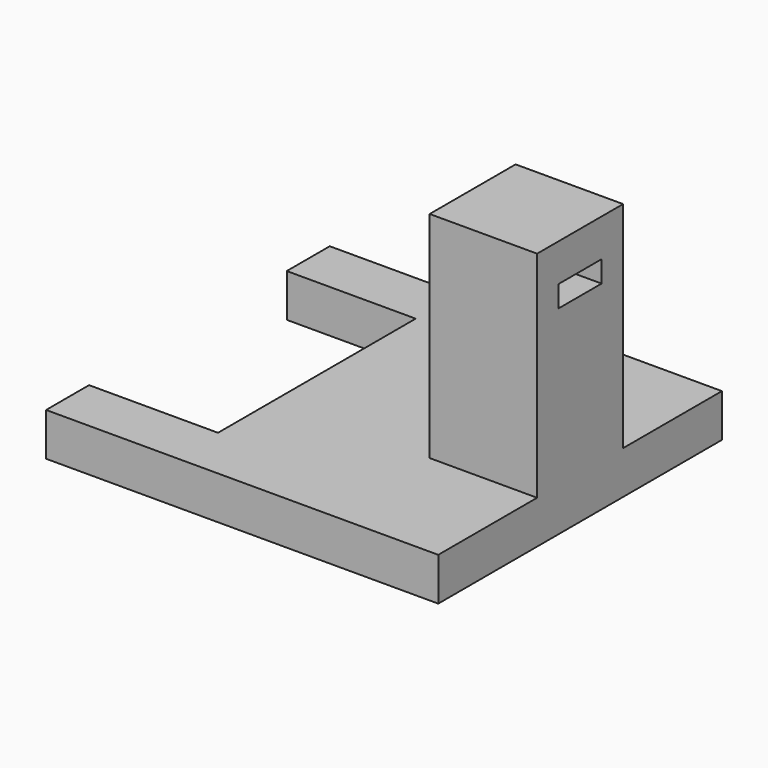
from build123d import *

# Parameters (mm, degrees)
BOX003_W     = 10
BOX003_H     = 5
BOX003_DEPTH = 2
BOX001_W     = 10
BOX001_H     = 10
BOX001_DEPTH = 20
BOX002_W     = 12
BOX002_H     = 23
BOX002_DEPTH = 4
BOX_W        = 36.5
BOX_H        = 33
BOX_DEPTH    = 4


with BuildPart() as box003:
    # Box003 → Box003 (new body)
    with BuildSketch(Plane(origin=(26.5, 14, 18.5), x_dir=(1, 0, 0), z_dir=(0, 0, 1))):
        with Locations((5, 2.5)):
            Rectangle(BOX003_W, BOX003_H)
    extrude(amount=BOX003_DEPTH)


with BuildPart() as cut001:
    # Box001 → Box001 (new body)
    with BuildSketch(Plane(origin=(26.5, 11.5, 4), x_dir=(1, 0, 0), z_dir=(0, 0, 1))):
        with Locations((5, 5)):
            Rectangle(BOX001_W, BOX001_H)
    extrude(amount=BOX001_DEPTH)

    # Cut001: cut Box003
    add(box003.part, mode=Mode.SUBTRACT)


with BuildPart() as box002:
    # Box002 → Box002 (new body)
    with BuildSketch(Plane(origin=(0, 5, 0), x_dir=(1, 0, 0), z_dir=(0, 0, 1))):
        with Locations((6, 11.5)):
            Rectangle(BOX002_W, BOX002_H)
    extrude(amount=BOX002_DEPTH)


with BuildPart() as fusion:
    # Box → Box (new body)
    with BuildSketch(Plane.XY):
        with Locations((18.25, 16.5)):
            Rectangle(BOX_W, BOX_H)
    extrude(amount=BOX_DEPTH)

    # Cut: cut Box002
    add(box002.part, mode=Mode.SUBTRACT)

    # Fusion: union Cut001
    add(cut001.part)


solid = fusion.part
